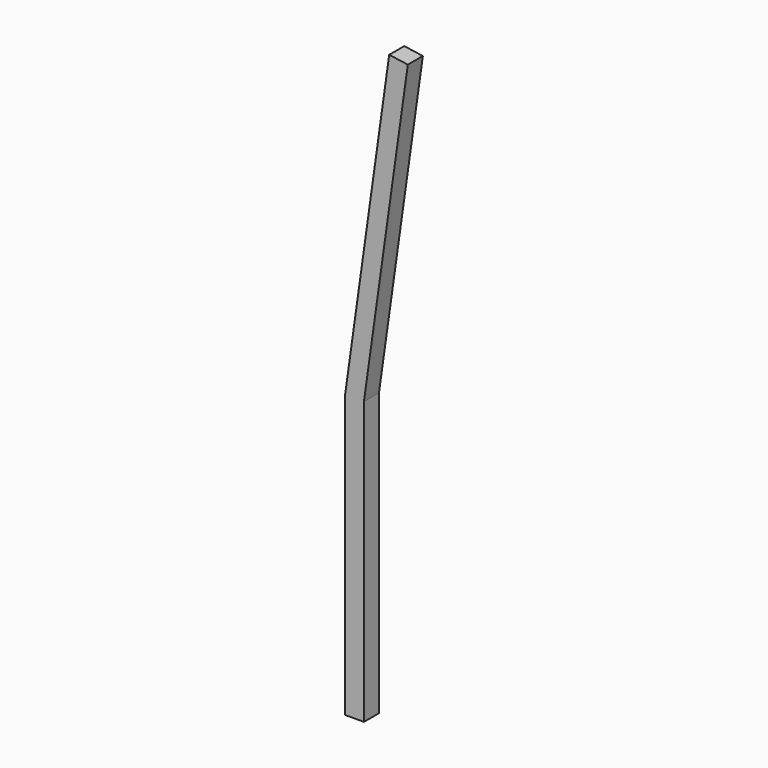
from build123d import *

# Parameters (mm, degrees)
F1_DEPTH = 30
F3_DEPTH = 8
F4_W     = 10
F4_H     = 30
F5_DEPTH = 8
F6_W     = 10
F6_H     = 30
F7_DEPTH = 8


with BuildPart() as f1:
    # F0 (on Front) → F1 (new body)
    with BuildSketch(Plane.XZ):
        Polygon((70.294598, 500), (0, 0), (0, -450), (30, -450), (30, 0), (100, 495.806066), align=None)
    extrude(amount=F1_DEPTH)

    # F2 (on face) → F3 (cut)
    with BuildSketch(Plane(origin=(0, 0, 0), x_dir=(-1, 0, 0), z_dir=(0, 1, 0))):
        Polygon((-73.234991, 449.086059), (-83.137606, 447.693859), (-80.353204, 427.888629), (-70.45059, 429.28083), align=None)
        Polygon((-63.489587, 379.767757), (-73.392201, 378.375556), (-70.6078, 358.570327), (-60.705185, 359.962527), align=None)
    extrude(amount=-F3_DEPTH, mode=Mode.SUBTRACT)

    # F4 (on face) → F5 (cut)
    with BuildSketch(Plane(origin=(0, 0, 0), x_dir=(-1, 0, 0), z_dir=(0, 1, 0))):
        with Locations((-15, -35)):
            Rectangle(F4_W, F4_H)
    extrude(amount=-F5_DEPTH, mode=Mode.SUBTRACT)

    # F6 (on face) → F7 (cut)
    with BuildSketch(Plane(origin=(0, 0, 0), x_dir=(0, -1, 0), z_dir=(-1, 0, 0))):
        with Locations((15, -35)):
            Rectangle(F6_W, F6_H)
    extrude(amount=-F7_DEPTH, mode=Mode.SUBTRACT)


solid = f1.part
